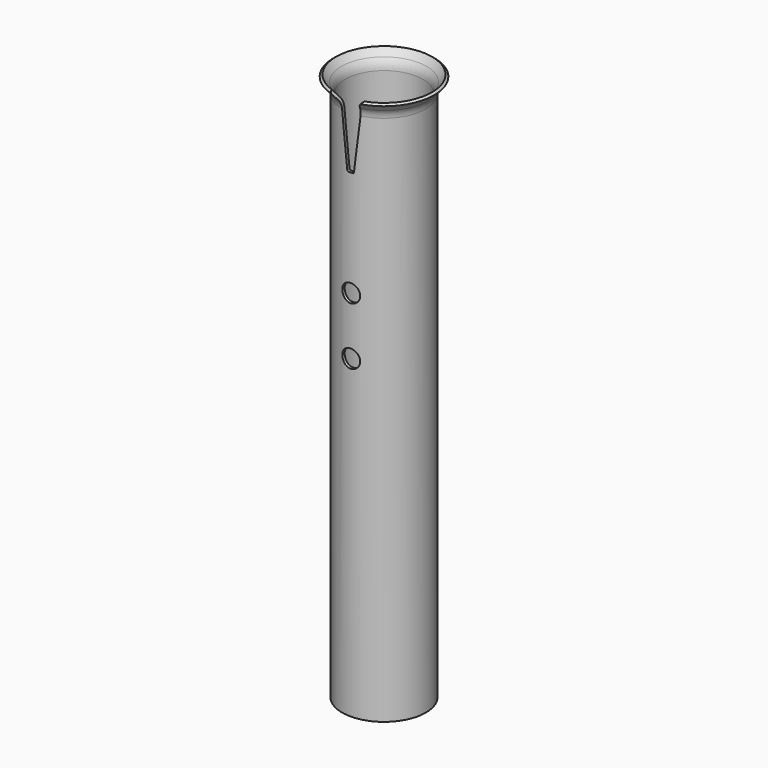
from build123d import *

# Parameters (mm, degrees)
F1_DEPTH      = 45
F3_DEPTH      = 47.5
F0_R          = 5
F0_R_2        = 2.5
F4_DEPTH      = 26.8448911594
F4_DEPTH_BACK = 10.2
F5_DEPTH      = 26.8448911594
F5_DEPTH_BACK = 17.3
F6_DEPTH      = 28.0842064241
F6_DEPTH_BACK = 25
F7_DEPTH      = 40.6
F7_DEPTH_BACK = 127.9
F8_DEPTH      = 26.8448911594
F8_DEPTH_BACK = 25


with BuildPart() as f1:
    # F0 (on Front) → F1 (new body)
    with BuildSketch(Plane.XZ):
        with BuildLine():
            ThreePointArc((-56.1564664539, 94.2714790144), (-55.7103223471, 94.4415023302), (-55.4904903386, 94.8653258548))
            Line((-55.4904903386, 94.8653258548), (-51.9799463815, 125.4227281117))
            ThreePointArc((-51.9799463815, 125.4227281117), (-50.9232927128, 129.1475665325), (-48.7355589867, 132.3420554399))
            Line((-48.7355589867, 132.3420554399), (-47.0069608027, 134.1516260741))
            Line((-47.0069608027, 134.1516260741), (-67.7195905025, 134.1516260741))
            Line((-67.7195905025, 134.1516260741), (-65.9909923185, 132.3420554399))
            ThreePointArc((-65.9909923185, 132.3420554399), (-63.8032585923, 129.1475665325), (-62.7466049237, 125.4227281117))
            Line((-62.7466049237, 125.4227281117), (-59.2360609666, 94.8653258548))
            ThreePointArc((-59.2360609666, 94.8653258548), (-59.0162289581, 94.4415023302), (-58.5700848513, 94.2714790144))
            Line((-58.5700848513, 94.2714790144), (-56.1564664539, 94.2714790144))
        make_face()
    extrude(amount=F1_DEPTH)

    # F0 (on Front) → F2 (revolve)
    with BuildSketch(Plane.XZ):
        with BuildLine():
            ThreePointArc((-33.5507006262, 129.2238042997), (-35.0548504452, 126.5545175576), (-35.5763814669, 123.535318362))
            Line((-35.5763814669, 123.535318362), (-35.5763814669, -173.2597642372))
            Line((-35.5763814669, -173.2597642372), (-33.9763798769, -173.2597642372))
            Line((-33.9763798769, -173.2597642372), (-33.9763798769, 123.535318362))
            ThreePointArc((-33.9763798769, 123.535318362), (-33.5475655735, 126.0177705006), (-32.3108204324, 128.2125169058))
            Line((-32.3108204324, 128.2125169058), (-29.2800693285, 131.9283431772))
            Line((-29.2800693285, 131.9283431772), (-30.5199495223, 132.9396305711))
            Line((-30.5199495223, 132.9396305711), (-33.5507006262, 129.2238042997))
        make_face()
    revolve(axis=Axis((-57.3632756526, 0, 129.4338501955), (0, 0, -1)))

    # F3 (cut): a face of the model
    f3_faces = [f1.faces().sort_by_distance(p)[0] for p in [
        (-57.3632756526, -45, 118.8376306589),
    ]]
    extrude(f3_faces, amount=-F3_DEPTH, mode=Mode.SUBTRACT)

    # F0 (on Front) → F4 (cut, two sides)
    with BuildSketch(Plane.XZ) as f4_sk:
        with Locations((-57.3632756526, 34.9645242095)):
            Circle(F0_R)
        with Locations((-57.3632756526, 34.9645242095)):
            Circle(F0_R_2, mode=Mode.SUBTRACT)
    extrude(amount=F4_DEPTH, mode=Mode.SUBTRACT)
    extrude(f4_sk.sketch, amount=-F4_DEPTH_BACK, mode=Mode.SUBTRACT)

    # F0 (on Front) → F5 (cut, two sides)
    with BuildSketch(Plane.XZ) as f5_sk:
        with Locations((-57.3632756526, 2.7531287633)):
            Circle(F0_R)
        with Locations((-57.3632756526, 2.7531287633)):
            Circle(F0_R_2, mode=Mode.SUBTRACT)
    extrude(amount=F5_DEPTH, mode=Mode.SUBTRACT)
    extrude(f5_sk.sketch, amount=-F5_DEPTH_BACK, mode=Mode.SUBTRACT)

    # F0 (on Front) → F6 (cut, two sides)
    with BuildSketch(Plane.XZ) as f6_sk:
        with Locations((-57.3632756526, 34.9645242095)):
            Circle(F0_R_2)
    extrude(amount=-F6_DEPTH, mode=Mode.SUBTRACT)
    extrude(f6_sk.sketch, amount=F6_DEPTH_BACK, mode=Mode.SUBTRACT)

    # F0 (on Front) → F7 (cut, two sides)
    with BuildSketch(Plane.XZ) as f7_sk:
        with Locations((-57.3632756526, 2.7531287633)):
            Circle(F0_R_2)
    extrude(amount=F7_DEPTH, mode=Mode.SUBTRACT)
    extrude(f7_sk.sketch, amount=-F7_DEPTH_BACK, mode=Mode.SUBTRACT)

    # F0 (on Front) → F8 (cut, two sides)
    with BuildSketch(Plane.XZ) as f8_sk:
        with Locations((-57.3632756526, 34.9645242095)):
            Circle(F0_R_2)
    extrude(amount=F8_DEPTH, mode=Mode.SUBTRACT)
    extrude(f8_sk.sketch, amount=-F8_DEPTH_BACK, mode=Mode.SUBTRACT)


solid = f1.part
